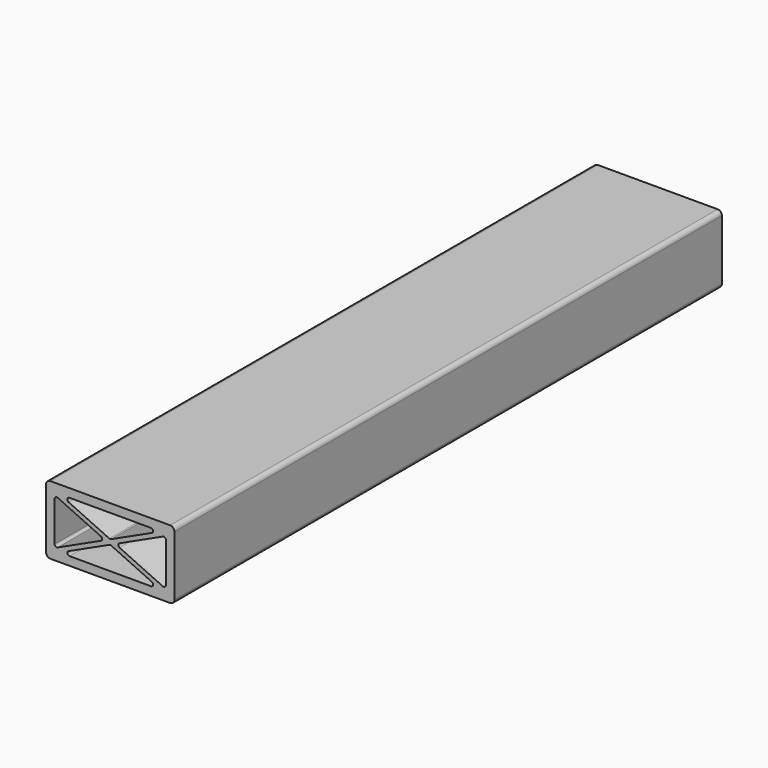
from build123d import *

# Parameters (mm, degrees)
F0_W     = 150
F0_H     = 80
F1_DEPTH = 800
F3_DEPTH = 800.001
F4_R     = 2.5
F5_R     = 5


with BuildPart() as f1:
    # F0 (on Front) → F1 (new body)
    with BuildSketch(Plane.XZ):
        Rectangle(F0_W, F0_H)
    extrude(amount=F1_DEPTH)

    # F2 (on face) → F3 (cut, through all)
    with BuildSketch(Plane.XZ.offset(800)):
        Polygon((59.034241, 30), (-59.034241, 30), (0, 2.753427), align=None)
        Polygon((0, -2.753427), (-59.034241, -30), (59.034241, -30), align=None)
        Polygon((-5.965759, 0), (-65, 27.246573), (-65, -27.246573), align=None)
        Polygon((65, -27.246573), (65, 27.246573), (5.965759, 0), align=None)
    extrude(amount=-F3_DEPTH, mode=Mode.SUBTRACT)

    # F4
    f4_edges = [f1.edges().sort_by_distance(p)[0] for p in [
        (-59.034241, -400, 30),
        (5.965759, -400, 0),
        (0, -400, -2.753427),
        (-5.965759, -400, 0),
        (0, -400, 2.753427),
        (65, -400, -27.246573),
        (65, -400, 27.246573),
        (59.034241, -400, 30),
        (-65, -400, 27.246573),
        (-65, -400, -27.246573),
        (-59.034241, -400, -30),
        (59.034241, -400, -30),
    ]]
    fillet(f4_edges, radius=F4_R)

    # F5
    f5_edges = [f1.edges().sort_by_distance(p)[0] for p in [
        (-75, -400, 40),
        (-75, -400, -40),
        (75, -400, 40),
        (75, -400, -40),
    ]]
    fillet(f5_edges, radius=F5_R)


solid = f1.part
